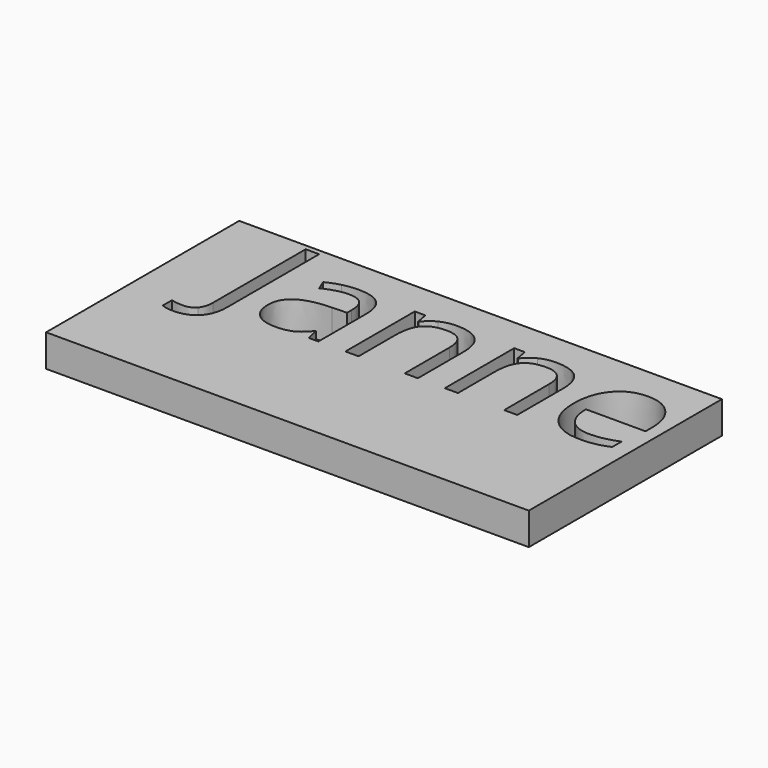
from build123d import *

# Parameters (mm, degrees)
F0_W     = 30
F0_H     = 15
F1_DEPTH = 2


with BuildPart() as f1:
    # F0 (on Top) → F1 (new body)
    with BuildSketch(Plane.XY):
        with Locations((-15, 7.5)):
            Rectangle(F0_W, F0_H)
        with BuildLine():
            add(Edge.make_bspline(
                [(-25.2514986596, 6.1214301728), (-25.723342297, 5.6079070142), (-26.6088355231, 5.6079070142)],
                knots=[0, 0, 0, 1, 1, 1], degree=2))
            add(Edge.make_bspline(
                [(-26.6088355231, 5.6079070142), (-27.0696694756, 5.6079070142), (-27.3354747247, 5.7400232326)],
                knots=[0, 0, 0, 1, 1, 1], degree=2))
            Line((-27.3354747247, 5.7400232326), (-27.3354747247, 6.4525071251))
            add(Edge.make_bspline(
                [(-27.3354747247, 6.4525071251), (-26.986310433, 6.3549927733), (-26.6088355231, 6.3549927733)],
                knots=[0, 0, 0, 1, 1, 1], degree=2))
            add(Edge.make_bspline(
                [(-26.6088355231, 6.3549927733), (-26.1212637645, 6.3549927733), (-25.8680410125, 6.6498950467)],
                knots=[0, 0, 0, 1, 1, 1], degree=2))
            add(Edge.make_bspline(
                [(-25.8680410125, 6.6498950467), (-25.6148182604, 6.94479732), (-25.6148182604, 7.5)],
                knots=[0, 0, 0, 1, 1, 1], degree=2))
            Line((-25.6148182604, 7.5), (-25.6148182604, 14.6861785971))
            Line((-25.6148182604, 14.6861785971), (-24.7796550223, 14.6861785971))
            Line((-24.7796550223, 14.6861785971), (-24.7796550223, 7.5692037335))
            add(Edge.make_bspline(
                [(-24.7796550223, 7.5692037335), (-24.7796550223, 6.6349533315), (-25.2514986596, 6.1214301728)],
                knots=[0, 0, 0, 1, 1, 1], degree=2))
        make_face(mode=Mode.SUBTRACT)
        with BuildLine():
            Line((-19.0782110708, 7.5), (-19.6837437387, 7.5))
            Line((-19.6837437387, 7.5), (-19.8457433876, 8.2675323168))
            Line((-19.8457433876, 8.2675323168), (-19.8850636907, 8.2675323168))
            add(Edge.make_bspline(
                [(-19.8850636907, 8.2675323168), (-20.2877035946, 7.7610868127), (-20.6879842802, 7.5809998244)],
                knots=[0, 0, 0, 1, 1, 1], degree=2))
            add(Edge.make_bspline(
                [(-20.6879842802, 7.5809998244), (-21.0882649659, 7.4009128362), (-21.6890791975, 7.4009128362)],
                knots=[0, 0, 0, 1, 1, 1], degree=2))
            add(Edge.make_bspline(
                [(-21.6890791975, 7.4009128362), (-22.4896405689, 7.4009128362), (-22.9441832729, 7.8145624249)],
                knots=[0, 0, 0, 1, 1, 1], degree=2))
            add(Edge.make_bspline(
                [(-22.9441832729, 7.8145624249), (-23.3987259769, 8.2282120137), (-23.3987259769, 8.9894530819)],
                knots=[0, 0, 0, 1, 1, 1], degree=2))
            add(Edge.make_bspline(
                [(-23.3987259769, 8.9894530819), (-23.3987259769, 10.6204592551), (-20.7894306623, 10.6990998613)],
                knots=[0, 0, 0, 1, 1, 1], degree=2))
            Line((-20.7894306623, 10.6990998613), (-19.8756268179, 10.7289832917))
            Line((-19.8756268179, 10.7289832917), (-19.8756268179, 11.0639922742))
            add(Edge.make_bspline(
                [(-19.8756268179, 11.0639922742), (-19.8756268179, 11.6978355604), (-20.1477233155, 11.9998154883)],
                knots=[0, 0, 0, 1, 1, 1], degree=2))
            add(Edge.make_bspline(
                [(-20.1477233155, 11.9998154883), (-20.419819813, 12.3017954162), (-21.0206340446, 12.3017954162)],
                knots=[0, 0, 0, 1, 1, 1], degree=2))
            add(Edge.make_bspline(
                [(-21.0206340446, 12.3017954162), (-21.6937976339, 12.3017954162), (-22.5431161812, 11.8897186396)],
                knots=[0, 0, 0, 1, 1, 1], degree=2))
            Line((-22.5431161812, 11.8897186396), (-22.7947661211, 12.5141250531))
            add(Edge.make_bspline(
                [(-22.7947661211, 12.5141250531), (-22.3968446536, 12.7296003141), (-21.922641798, 12.8522796598)],
                knots=[0, 0, 0, 1, 1, 1], degree=2))
            add(Edge.make_bspline(
                [(-21.922641798, 12.8522796598), (-21.4484389425, 12.9749590056), (-20.9703040566, 12.9749590056)],
                knots=[0, 0, 0, 1, 1, 1], degree=2))
            add(Edge.make_bspline(
                [(-20.9703040566, 12.9749590056), (-20.0077430364, 12.9749590056), (-19.5429770536, 12.5479405137)],
                knots=[0, 0, 0, 1, 1, 1], degree=2))
            add(Edge.make_bspline(
                [(-19.5429770536, 12.5479405137), (-19.0782110708, 12.1209220219), (-19.0782110708, 11.1772347472)],
                knots=[0, 0, 0, 1, 1, 1], degree=2))
            Line((-19.0782110708, 11.1772347472), (-19.0782110708, 7.5))
        make_face(mode=Mode.SUBTRACT)
        with BuildLine():
            Line((-12.8954866092, 7.5), (-13.7117761018, 7.5))
            Line((-13.7117761018, 7.5), (-13.7117761018, 10.985351668))
            add(Edge.make_bspline(
                [(-13.7117761018, 10.985351668), (-13.7117761018, 11.6427871361), (-14.0113968115, 11.9675728398)],
                knots=[0, 0, 0, 1, 1, 1], degree=2))
            add(Edge.make_bspline(
                [(-14.0113968115, 11.9675728398), (-14.3110175213, 12.2923585435), (-14.951152056, 12.2923585435)],
                knots=[0, 0, 0, 1, 1, 1], degree=2))
            add(Edge.make_bspline(
                [(-14.951152056, 12.2923585435), (-15.7957521668, 12.2923585435), (-16.188955198, 11.8354566213)],
                knots=[0, 0, 0, 1, 1, 1], degree=2))
            add(Edge.make_bspline(
                [(-16.188955198, 11.8354566213), (-16.5821582291, 11.3785546991), (-16.5821582291, 10.3263433878)],
                knots=[0, 0, 0, 1, 1, 1], degree=2))
            Line((-16.5821582291, 10.3263433878), (-16.5821582291, 7.5))
            Line((-16.5821582291, 7.5), (-17.3984477218, 7.5))
            Line((-17.3984477218, 7.5), (-17.3984477218, 12.8868815266))
            Line((-17.3984477218, 12.8868815266), (-16.7347210052, 12.8868815266))
            Line((-16.7347210052, 12.8868815266), (-16.6026047867, 12.1492326402))
            Line((-16.6026047867, 12.1492326402), (-16.5632844836, 12.1492326402))
            add(Edge.make_bspline(
                [(-16.5632844836, 12.1492326402), (-16.3116345437, 12.5471541077), (-15.8594510579, 12.7665613991)],
                knots=[0, 0, 0, 1, 1, 1], degree=2))
            add(Edge.make_bspline(
                [(-15.8594510579, 12.7665613991), (-15.4072675721, 12.9859686904), (-14.8520648921, 12.9859686904)],
                knots=[0, 0, 0, 1, 1, 1], degree=2))
            add(Edge.make_bspline(
                [(-14.8520648921, 12.9859686904), (-13.878494187, 12.9859686904), (-13.3869903981, 12.5164842712)],
                knots=[0, 0, 0, 1, 1, 1], degree=2))
            add(Edge.make_bspline(
                [(-13.3869903981, 12.5164842712), (-12.8954866092, 12.0469998521), (-12.8954866092, 11.0136622862)],
                knots=[0, 0, 0, 1, 1, 1], degree=2))
            Line((-12.8954866092, 11.0136622862), (-12.8954866092, 7.5))
        make_face(mode=Mode.SUBTRACT)
        with BuildLine():
            Line((-6.7174805839, 7.5), (-7.5337700766, 7.5))
            Line((-7.5337700766, 7.5), (-7.5337700766, 10.985351668))
            add(Edge.make_bspline(
                [(-7.5337700766, 10.985351668), (-7.5337700766, 11.6427871361), (-7.8333907863, 11.9675728398)],
                knots=[0, 0, 0, 1, 1, 1], degree=2))
            add(Edge.make_bspline(
                [(-7.8333907863, 11.9675728398), (-8.133011496, 12.2923585435), (-8.7731460307, 12.2923585435)],
                knots=[0, 0, 0, 1, 1, 1], degree=2))
            add(Edge.make_bspline(
                [(-8.7731460307, 12.2923585435), (-9.6177461416, 12.2923585435), (-10.0109491728, 11.8354566213)],
                knots=[0, 0, 0, 1, 1, 1], degree=2))
            add(Edge.make_bspline(
                [(-10.0109491728, 11.8354566213), (-10.4041522039, 11.3785546991), (-10.4041522039, 10.3263433878)],
                knots=[0, 0, 0, 1, 1, 1], degree=2))
            Line((-10.4041522039, 10.3263433878), (-10.4041522039, 7.5))
            Line((-10.4041522039, 7.5), (-11.2204416965, 7.5))
            Line((-11.2204416965, 7.5), (-11.2204416965, 12.8868815266))
            Line((-11.2204416965, 12.8868815266), (-10.55671498, 12.8868815266))
            Line((-10.55671498, 12.8868815266), (-10.4245987615, 12.1492326402))
            Line((-10.4245987615, 12.1492326402), (-10.3852784584, 12.1492326402))
            add(Edge.make_bspline(
                [(-10.3852784584, 12.1492326402), (-10.1336285185, 12.5471541077), (-9.6814450327, 12.7665613991)],
                knots=[0, 0, 0, 1, 1, 1], degree=2))
            add(Edge.make_bspline(
                [(-9.6814450327, 12.7665613991), (-9.2292615469, 12.9859686904), (-8.6740588669, 12.9859686904)],
                knots=[0, 0, 0, 1, 1, 1], degree=2))
            add(Edge.make_bspline(
                [(-8.6740588669, 12.9859686904), (-7.7004881618, 12.9859686904), (-7.2089843729, 12.5164842712)],
                knots=[0, 0, 0, 1, 1, 1], degree=2))
            add(Edge.make_bspline(
                [(-7.2089843729, 12.5164842712), (-6.7174805839, 12.0469998521), (-6.7174805839, 11.0136622862)],
                knots=[0, 0, 0, 1, 1, 1], degree=2))
            Line((-6.7174805839, 11.0136622862), (-6.7174805839, 7.5))
        make_face(mode=Mode.SUBTRACT)
        with BuildLine():
            add(Edge.make_bspline(
                [(-1.8354717493, 7.4826990666), (-2.2208107199, 7.4009128362), (-2.7665765271, 7.4009128362)],
                knots=[0, 0, 0, 1, 1, 1], degree=2))
            add(Edge.make_bspline(
                [(-2.7665765271, 7.4009128362), (-3.9603409296, 7.4009128362), (-4.6515918584, 8.1291248498)],
                knots=[0, 0, 0, 1, 1, 1], degree=2))
            add(Edge.make_bspline(
                [(-4.6515918584, 8.1291248498), (-5.3428427871, 8.8573368635), (-5.3428427871, 10.1486156177)],
                knots=[0, 0, 0, 1, 1, 1], degree=2))
            add(Edge.make_bspline(
                [(-5.3428427871, 10.1486156177), (-5.3428427871, 11.452476869), (-4.7011354403, 12.2192227797)],
                knots=[0, 0, 0, 1, 1, 1], degree=2))
            add(Edge.make_bspline(
                [(-4.7011354403, 12.2192227797), (-4.0594280935, 12.9859686904), (-2.9773333518, 12.9859686904)],
                knots=[0, 0, 0, 1, 1, 1], degree=2))
            add(Edge.make_bspline(
                [(-2.9773333518, 12.9859686904), (-1.9660151557, 12.9859686904), (-1.376210609, 12.3198827557)],
                knots=[0, 0, 0, 1, 1, 1], degree=2))
            add(Edge.make_bspline(
                [(-1.376210609, 12.3198827557), (-0.7864060623, 11.6537968209), (-0.7864060623, 10.5622652065)],
                knots=[0, 0, 0, 1, 1, 1], degree=2))
            Line((-0.7864060623, 10.5622652065), (-0.7864060623, 10.0463828296))
            Line((-0.7864060623, 10.0463828296), (-4.4966698641, 10.0463828296))
            add(Edge.make_bspline(
                [(-4.4966698641, 10.0463828296), (-4.4715048701, 9.0979771185), (-4.0169621661, 8.6064733296)],
                knots=[0, 0, 0, 1, 1, 1], degree=2))
            add(Edge.make_bspline(
                [(-4.0169621661, 8.6064733296), (-3.5624194621, 8.1149695407), (-2.7366930967, 8.1149695407)],
                knots=[0, 0, 0, 1, 1, 1], degree=2))
            add(Edge.make_bspline(
                [(-2.7366930967, 8.1149695407), (-1.8669279918, 8.1149695407), (-1.0176094446, 8.4782891415)],
                knots=[0, 0, 0, 1, 1, 1], degree=2))
            Line((-1.0176094446, 8.4782891415), (-1.0176094446, 7.7500771278))
            add(Edge.make_bspline(
                [(-1.0176094446, 7.7500771278), (-1.4501327788, 7.5644852971), (-1.8354717493, 7.4826990666)],
                knots=[0, 0, 0, 1, 1, 1], degree=2))
        make_face(mode=Mode.SUBTRACT)
    extrude(amount=-F1_DEPTH)


solid = f1.part
